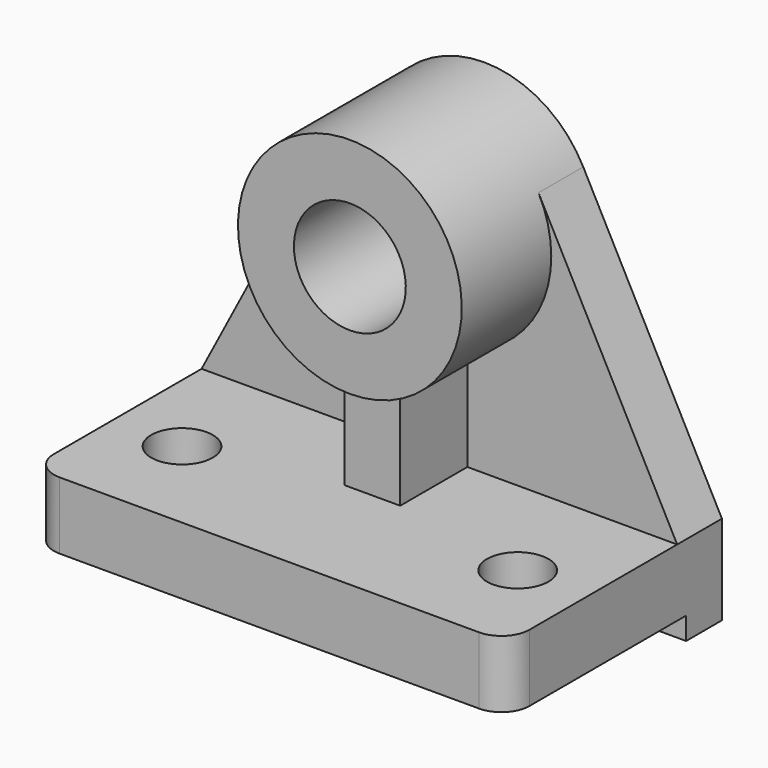
from build123d import *

# Parameters (mm, degrees)
F0_R     = 139.7
F1_DEPTH = 406.4
F2_W     = 889
F2_H     = 101.6
F2_W_2   = 127
F3_DEPTH = 2159.001
F5_DEPTH = 254
F6_DEPTH = 635
F7_DEPTH = 762


with BuildPart() as f1:
    # F0 (on Top) → F1 (new body)
    with BuildSketch(Plane.XY):
        with BuildLine():
            ThreePointArc((0, 127), (37.1974387893, 37.1974387893), (127, 0))
            Line((127, 0), (1079.5, 0))
            Line((1079.5, 0), (2032, 0))
            ThreePointArc((2032, 0), (2121.8025612107, 37.1974387893), (2159, 127))
            Line((2159, 127), (2159, 1219.2))
            Line((2159, 1219.2), (0, 1219.2))
            Line((0, 1219.2), (0, 127))
        make_face()
        with Locations((317.5, 457.2)):
            Circle(F0_R, mode=Mode.SUBTRACT)
        with BuildLine():
            ThreePointArc((1981.2, 457.2), (1841.5, 317.5), (1701.8, 457.2))
            ThreePointArc((1701.8, 457.2), (1841.5, 596.9), (1981.2, 457.2))
        make_face(mode=Mode.SUBTRACT)
    extrude(amount=F1_DEPTH)

    # F2 (on face) → F3 (cut, through all)
    with BuildSketch(Plane(origin=(0, 0, 0), x_dir=(0, -1, 0), z_dir=(-1, 0, 0))):
        with Locations((-571.5, 50.8)):
            Rectangle(F2_W, F2_H)
        with Locations((-63.5, 50.8)):
            Rectangle(F2_W_2, F2_H)
    extrude(amount=-F3_DEPTH, mode=Mode.SUBTRACT)

    # F4 (on face) → F5 (join)
    with BuildSketch(Plane(origin=(0, 1219.2, 0), x_dir=(-1, 0, 0), z_dir=(0, 1, 0))):
        with BuildLine():
            Line((-952.5, 879.7311150317), (-952.5, 406.4))
            Line((-952.5, 406.4), (0, 406.4))
            Line((0, 406.4), (-629.566366733, 1607.4468266802))
            ThreePointArc((-629.566366733, 1607.4468266802), (-586.2301520974, 1493.0448728855), (-571.5, 1371.6))
            ThreePointArc((-571.5, 1371.6), (-677.8907371586, 1060.5148026665), (-952.5, 879.7311150317))
        make_face()
        with BuildLine():
            Line((-2159, 406.4), (-1206.5, 406.4))
            Line((-1206.5, 406.4), (-1206.5, 879.7311150317))
            ThreePointArc((-1206.5, 879.7311150317), (-1543.8335477259, 1165.5457439016), (-1529.433633267, 1607.4468266802))
            Line((-1529.433633267, 1607.4468266802), (-2159, 406.4))
        make_face()
        with BuildLine():
            Line((-1206.5, 965.2), (-1079.5, 965.2))
            Line((-1079.5, 965.2), (-952.5, 965.2))
            Line((-952.5, 965.2), (-952.5, 879.7311150317))
            ThreePointArc((-952.5, 879.7311150317), (-677.8907371586, 1060.5148026665), (-571.5, 1371.6))
            ThreePointArc((-571.5, 1371.6), (-586.2301520974, 1493.0448728855), (-629.566366733, 1607.4468266802))
            ThreePointArc((-629.566366733, 1607.4468266802), (-1079.5, 1879.6), (-1529.433633267, 1607.4468266802))
            ThreePointArc((-1529.433633267, 1607.4468266802), (-1543.8335477259, 1165.5457439016), (-1206.5, 879.7311150317))
            Line((-1206.5, 879.7311150317), (-1206.5, 965.2))
        make_face()
        with BuildLine():
            ThreePointArc((-825.5, 1371.6), (-899.8948775786, 1191.9948775786), (-1079.5, 1117.6))
            ThreePointArc((-1079.5, 1117.6), (-1259.1051224214, 1551.2051224214), (-825.5, 1371.6))
        make_face(mode=Mode.SUBTRACT)
        with BuildLine():
            Line((-1079.5, 863.6), (-1079.5, 406.4))
            Line((-1079.5, 406.4), (-952.5, 406.4))
            Line((-952.5, 406.4), (-952.5, 879.7311150317))
            ThreePointArc((-952.5, 879.7311150317), (-1015.4898194188, 867.6489142963), (-1079.5, 863.6))
        make_face()
        with BuildLine():
            Line((-1079.5, 965.2), (-1079.5, 863.6))
            ThreePointArc((-1079.5, 863.6), (-1015.4898194188, 867.6489142963), (-952.5, 879.7311150317))
            Line((-952.5, 879.7311150317), (-952.5, 965.2))
            Line((-952.5, 965.2), (-1079.5, 965.2))
        make_face()
        with BuildLine():
            ThreePointArc((-1206.5, 879.7311150317), (-1143.5101805812, 867.6489142963), (-1079.5, 863.6))
            Line((-1079.5, 863.6), (-1079.5, 965.2))
            Line((-1079.5, 965.2), (-1206.5, 965.2))
            Line((-1206.5, 965.2), (-1206.5, 879.7311150317))
        make_face()
        with BuildLine():
            Line((-1206.5, 406.4), (-1079.5, 406.4))
            Line((-1079.5, 406.4), (-1079.5, 863.6))
            ThreePointArc((-1079.5, 863.6), (-1143.5101805812, 867.6489142963), (-1206.5, 879.7311150317))
            Line((-1206.5, 879.7311150317), (-1206.5, 406.4))
        make_face()
    extrude(amount=-F5_DEPTH)

    # F4 (on face) → F6 (join)
    with BuildSketch(Plane(origin=(0, 1219.2, 0), x_dir=(-1, 0, 0), z_dir=(0, 1, 0))):
        with BuildLine():
            Line((-1206.5, 406.4), (-1079.5, 406.4))
            Line((-1079.5, 406.4), (-1079.5, 863.6))
            ThreePointArc((-1079.5, 863.6), (-1143.5101805812, 867.6489142963), (-1206.5, 879.7311150317))
            Line((-1206.5, 879.7311150317), (-1206.5, 406.4))
        make_face()
        with BuildLine():
            Line((-1079.5, 863.6), (-1079.5, 406.4))
            Line((-1079.5, 406.4), (-952.5, 406.4))
            Line((-952.5, 406.4), (-952.5, 879.7311150317))
            ThreePointArc((-952.5, 879.7311150317), (-1015.4898194188, 867.6489142963), (-1079.5, 863.6))
        make_face()
    extrude(amount=-F6_DEPTH)

    # F4 (on face) → F7 (join)
    with BuildSketch(Plane(origin=(0, 1219.2, 0), x_dir=(-1, 0, 0), z_dir=(0, 1, 0))):
        with BuildLine():
            ThreePointArc((-1206.5, 879.7311150317), (-1143.5101805812, 867.6489142963), (-1079.5, 863.6))
            Line((-1079.5, 863.6), (-1079.5, 965.2))
            Line((-1079.5, 965.2), (-1206.5, 965.2))
            Line((-1206.5, 965.2), (-1206.5, 879.7311150317))
        make_face()
        with BuildLine():
            Line((-1206.5, 965.2), (-1079.5, 965.2))
            Line((-1079.5, 965.2), (-952.5, 965.2))
            Line((-952.5, 965.2), (-952.5, 879.7311150317))
            ThreePointArc((-952.5, 879.7311150317), (-677.8907371586, 1060.5148026665), (-571.5, 1371.6))
            ThreePointArc((-571.5, 1371.6), (-586.2301520974, 1493.0448728855), (-629.566366733, 1607.4468266802))
            ThreePointArc((-629.566366733, 1607.4468266802), (-1079.5, 1879.6), (-1529.433633267, 1607.4468266802))
            ThreePointArc((-1529.433633267, 1607.4468266802), (-1543.8335477259, 1165.5457439016), (-1206.5, 879.7311150317))
            Line((-1206.5, 879.7311150317), (-1206.5, 965.2))
        make_face()
        with BuildLine():
            ThreePointArc((-825.5, 1371.6), (-899.8948775786, 1191.9948775786), (-1079.5, 1117.6))
            ThreePointArc((-1079.5, 1117.6), (-1259.1051224214, 1551.2051224214), (-825.5, 1371.6))
        make_face(mode=Mode.SUBTRACT)
        with BuildLine():
            Line((-1079.5, 965.2), (-1079.5, 863.6))
            ThreePointArc((-1079.5, 863.6), (-1015.4898194188, 867.6489142963), (-952.5, 879.7311150317))
            Line((-952.5, 879.7311150317), (-952.5, 965.2))
            Line((-952.5, 965.2), (-1079.5, 965.2))
        make_face()
    extrude(amount=-F7_DEPTH)


solid = f1.part
